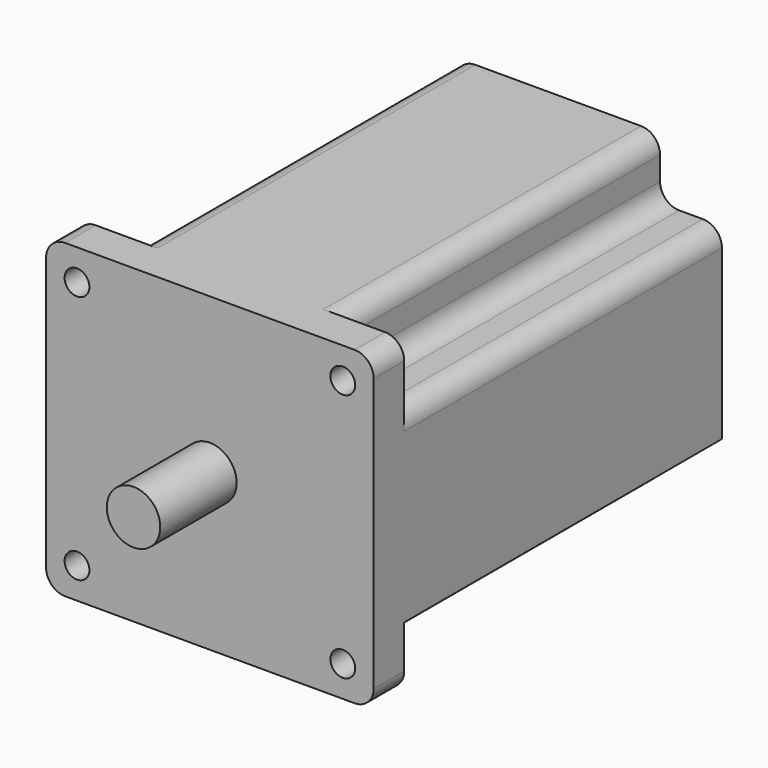
from build123d import *

# Parameters (mm, degrees)
F0_R     = 3.25
F0_R_2   = 30
F0_R_3   = 7
F1_DEPTH = 10
F2_R     = 30
F2_R_2   = 7
F3_DEPTH = 104
F4_DEPTH = 114.001
F5_DEPTH = 25


with BuildPart() as f1:
    # F0 (on Front) → F1 (new body)
    with BuildSketch(Plane.XZ):
        with BuildLine():
            Line((-42.9, 35.739249), (-42.9, 24.539249))
            Line((-42.9, 24.539249), (-26.7, 24.539249))
            Line((-26.7, 24.539249), (-26.7, 40.739249))
            Line((-26.7, 40.739249), (-37.9, 40.739249))
            ThreePointArc((-37.9, 40.739249), (-41.435534, 39.274783), (-42.9, 35.739249))
        make_face()
        with Locations((-34.8, 32.639249)):
            Circle(F0_R, mode=Mode.SUBTRACT)
        with Locations((-34.8, 32.639249)):
            Circle(F0_R)
        Polygon((-26.7, -40.739249), (26.7, -40.739249), (26.7, -24.539249), (42.9, -24.539249), (42.9, 24.539249), (26.7, 24.539249), (26.7, 40.739249), (-26.7, 40.739249), (-26.7, 24.539249), (-42.9, 24.539249), (-42.9, -24.539249), (-26.7, -24.539249), align=None)
        Circle(F0_R_2, mode=Mode.SUBTRACT)
        with BuildLine():
            Line((26.7, 24.539249), (42.9, 24.539249))
            Line((42.9, 24.539249), (42.9, 35.739249))
            ThreePointArc((42.9, 35.739249), (41.435534, 39.274783), (37.9, 40.739249))
            Line((37.9, 40.739249), (26.7, 40.739249))
            Line((26.7, 40.739249), (26.7, 24.539249))
        make_face()
        with Locations((34.8, 32.639249)):
            Circle(F0_R, mode=Mode.SUBTRACT)
        with Locations((34.8, 32.639249)):
            Circle(F0_R)
        Circle(F0_R_2)
        Circle(F0_R_3, mode=Mode.SUBTRACT)
        Circle(F0_R_3)
        with Locations((-34.8, -32.639249)):
            Circle(F0_R)
        with BuildLine():
            Line((-37.9, -40.739249), (-26.7, -40.739249))
            Line((-26.7, -40.739249), (-26.7, -24.539249))
            Line((-26.7, -24.539249), (-42.9, -24.539249))
            Line((-42.9, -24.539249), (-42.9, -35.739249))
            ThreePointArc((-42.9, -35.739249), (-41.435534, -39.274783), (-37.9, -40.739249))
        make_face()
        with Locations((-34.8, -32.639249)):
            Circle(F0_R, mode=Mode.SUBTRACT)
        with BuildLine():
            Line((26.7, -40.739249), (37.9, -40.739249))
            ThreePointArc((37.9, -40.739249), (41.435534, -39.274783), (42.9, -35.739249))
            Line((42.9, -35.739249), (42.9, -24.539249))
            Line((42.9, -24.539249), (26.7, -24.539249))
            Line((26.7, -24.539249), (26.7, -40.739249))
        make_face()
        with Locations((34.8, -32.639249)):
            Circle(F0_R, mode=Mode.SUBTRACT)
        with Locations((34.8, -32.639249)):
            Circle(F0_R)
    extrude(amount=-F1_DEPTH)

    # F2 (on face) → F3 (join)
    with BuildSketch(Plane(origin=(0, 10, 0), x_dir=(-1, 0, 0), z_dir=(0, 1, 0))):
        with BuildLine():
            ThreePointArc((-26.7, -35.739249), (-25.235534, -39.274783), (-21.7, -40.739249))
            Line((-21.7, -40.739249), (21.7, -40.739249))
            ThreePointArc((21.7, -40.739249), (25.235534, -39.274783), (26.7, -35.739249))
            Line((26.7, -35.739249), (26.7, -29.539249))
            ThreePointArc((26.7, -29.539249), (28.164466, -26.003716), (31.7, -24.539249))
            Line((31.7, -24.539249), (37.9, -24.539249))
            ThreePointArc((37.9, -24.539249), (41.435534, -23.074783), (42.9, -19.539249))
            Line((42.9, -19.539249), (42.9, 19.539249))
            ThreePointArc((42.9, 19.539249), (41.435534, 23.074783), (37.9, 24.539249))
            Line((37.9, 24.539249), (31.7, 24.539249))
            ThreePointArc((31.7, 24.539249), (28.164466, 26.003716), (26.7, 29.539249))
            Line((26.7, 29.539249), (26.7, 35.739249))
            ThreePointArc((26.7, 35.739249), (25.235534, 39.274783), (21.7, 40.739249))
            Line((21.7, 40.739249), (-21.7, 40.739249))
            ThreePointArc((-21.7, 40.739249), (-25.235534, 39.274783), (-26.7, 35.739249))
            Line((-26.7, 35.739249), (-26.7, 29.539249))
            ThreePointArc((-26.7, 29.539249), (-28.164466, 26.003716), (-31.7, 24.539249))
            Line((-31.7, 24.539249), (-37.9, 24.539249))
            ThreePointArc((-37.9, 24.539249), (-41.435534, 23.074783), (-42.9, 19.539249))
            Line((-42.9, 19.539249), (-42.9, -24.539249))
            Line((-42.9, -24.539249), (-31.7, -24.539249))
            ThreePointArc((-31.7, -24.539249), (-28.164466, -26.003716), (-26.7, -29.539249))
            Line((-26.7, -29.539249), (-26.7, -35.739249))
        make_face()
        Circle(F2_R, mode=Mode.SUBTRACT)
        Circle(F2_R)
        Circle(F2_R_2, mode=Mode.SUBTRACT)
        Circle(F2_R_2)
    extrude(amount=F3_DEPTH)

    # F0 (on Front) → F4 (cut, through all)
    with BuildSketch(Plane.XZ):
        with Locations((34.8, 32.639249)):
            Circle(F0_R)
        with Locations((-34.8, 32.639249)):
            Circle(F0_R)
        with Locations((-34.8, -32.639249)):
            Circle(F0_R)
        with Locations((34.8, -32.639249)):
            Circle(F0_R)
    extrude(amount=-F4_DEPTH, mode=Mode.SUBTRACT)


with BuildPart() as f5:
    # F0 (on Front) → F5 (new body)
    with BuildSketch(Plane.XZ):
        Circle(F0_R_3)
    extrude(amount=F5_DEPTH)


solid = Compound([f1.part, f5.part])
